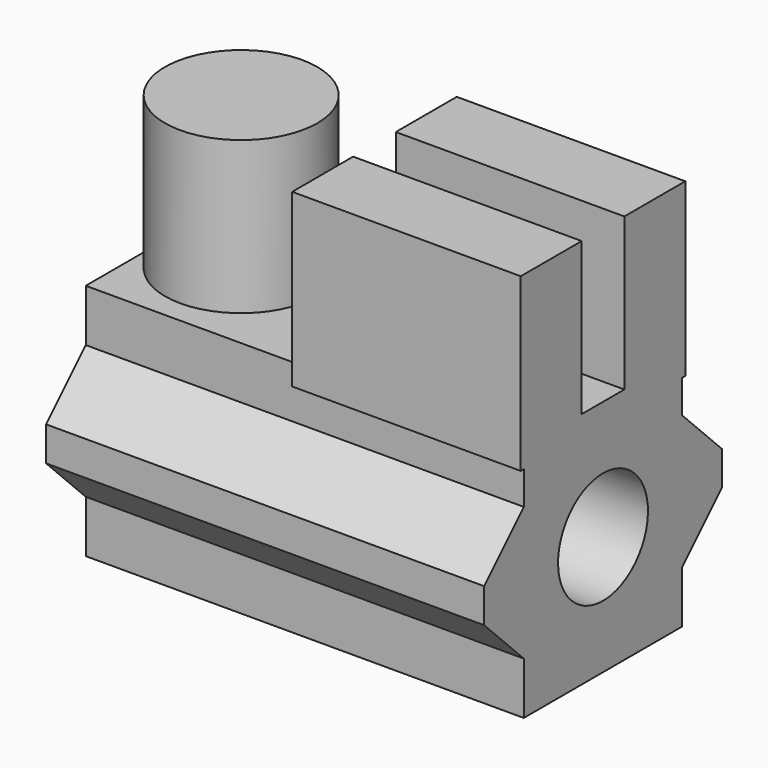
from build123d import *

# Parameters (mm, degrees)
OBJ1_DEPTH       = 5.04
OBJ1_PITCH_ANGLE = 90
OBJ2_W          = 5.04
OBJ2_H          = 6.24386
OBJ2_DEPTH      = 6.65
OBJ3_R          = 2.95
OBJ3_DEPTH      = 8.5
OBJ4         = 1.7
OBJ5     = 25
OBJ6     = -90
OBJ7_W                       = 12
OBJ7_H                       = 4
OBJ7_DEPTH                   = 9
GT2CLAMP0_CYL_R                       = 4
GT2CLAMP0_CYL_DEPTH                   = 9
OBJ8_DEPTH              = 23
OBJ9                       = 12
OBJ10                       = 4
OBJ11                   = 9


with BuildPart() as obj1:
    # obj1 → obj1 (new body)
    with BuildSketch(Plane.XY):
        Polygon((3.605, 0), (1.8025, 3.122022), (-1.8025, 3.122022), (-3.605, 0), (-1.8025, -3.122022), (1.8025, -3.122022), align=None)
    extrude(amount=OBJ1_DEPTH)


with BuildPart() as obj1_1:
    # obj1 pitch: moved
    add(obj1.part.rotate(Axis((0, 0, 0), (0, 1, 0)), OBJ1_PITCH_ANGLE))


with BuildPart() as obj1_2:
    # obj1 placement: moved
    add(obj1_1.part.moved(Location((3, 8.004167, 6.65))))


with BuildPart() as obj2:
    # obj2 → obj2 (new body)
    with BuildSketch(Plane(origin=(3, 4.882237, 0), x_dir=(1, 0, 0), z_dir=(0, 0, 1))):
        with Locations((2.52, 3.12193)):
            Rectangle(OBJ2_W, OBJ2_H)
    extrude(amount=OBJ2_DEPTH)


with BuildPart() as obj3:
    # obj3 → obj3 (new body)
    with BuildSketch(Plane.XY.offset(-1)):
        Circle(OBJ3_R)
    extrude(amount=OBJ3_DEPTH)


with BuildPart() as gt2clamp0_clamp_hole:
    with BuildSketch(Plane.XY.offset(-1)):
        Circle(OBJ4)
    extrude(amount=OBJ5)

    add(obj3.part)


with BuildPart() as gt2clamp0_clamp_hole_1:
    add(gt2clamp0_clamp_hole.part.rotate(Axis((0, 0, 0), (0, 1, 0)), OBJ6))


with BuildPart() as gt2clamp0_clamp_hole_2:
    add(gt2clamp0_clamp_hole_1.part.moved(Location((23, 8.004167, 6.25))))

    # gt2clamp0_clamp_hole: union obj1, obj2
    add(obj1_2.part)
    add(obj2.part)


with BuildPart() as obj7:
    # obj7 → obj7 (new body)
    with BuildSketch(Plane(origin=(11, 9.404167, 11.5), x_dir=(1, 0, 0), z_dir=(0, 0, 1))):
        with Locations((6, 2)):
            Rectangle(OBJ7_W, OBJ7_H)
    extrude(amount=OBJ7_DEPTH)


with BuildPart() as gt2clamp0_cyl:
    # gt2clamp0_cyl → gt2clamp0_cyl (new body)
    with BuildSketch(Plane(origin=(4, 8.004167, 11.5), x_dir=(1, 0, 0), z_dir=(0, 0, 1))):
        Circle(GT2CLAMP0_CYL_R)
    extrude(amount=GT2CLAMP0_CYL_DEPTH)


with BuildPart() as obj8:
    # gt2clamp0base_plane_yz → obj8 (new body)
    with BuildSketch(Plane(origin=(0, 8.004167, 6.25), x_dir=(0, 1, 0), z_dir=(-1, 0, 0))):
        Polygon((-5.2, 6.25), (-5.2, 3.50625), (-7.804167, 0.902083), (-7.804167, -0.902083), (-5.2, -3.50625), (-5.2, -6.25), (5.2, -6.25), (5.2, -3.50625), (7.804167, -0.902083), (7.804167, 0.902083), (5.2, 3.50625), (5.2, 6.25), align=None)
    extrude(amount=-OBJ8_DEPTH)


with BuildPart() as gt2clamp0:
    with BuildSketch(Plane(origin=(11, 2.604167, 11.5), x_dir=(1, 0, 0), z_dir=(0, 0, 1))):
        with Locations((6, 2)):
            Rectangle(OBJ9, OBJ10)
    extrude(amount=OBJ11)

    # gt2clamp0clamp_base: union obj7, gt2clamp0_cyl, obj8
    add(obj7.part)
    add(gt2clamp0_cyl.part)
    add(obj8.part)

    # gt2clamp0: cut gt2clamp0_clamp_hole
    add(gt2clamp0_clamp_hole_2.part, mode=Mode.SUBTRACT)


with BuildPart() as gt2clamp0_1:
    # gt2clamp0 placement: moved
    add(gt2clamp0.part.moved(Location((100, 1.2, 12.5))))


solid = gt2clamp0_1.part
